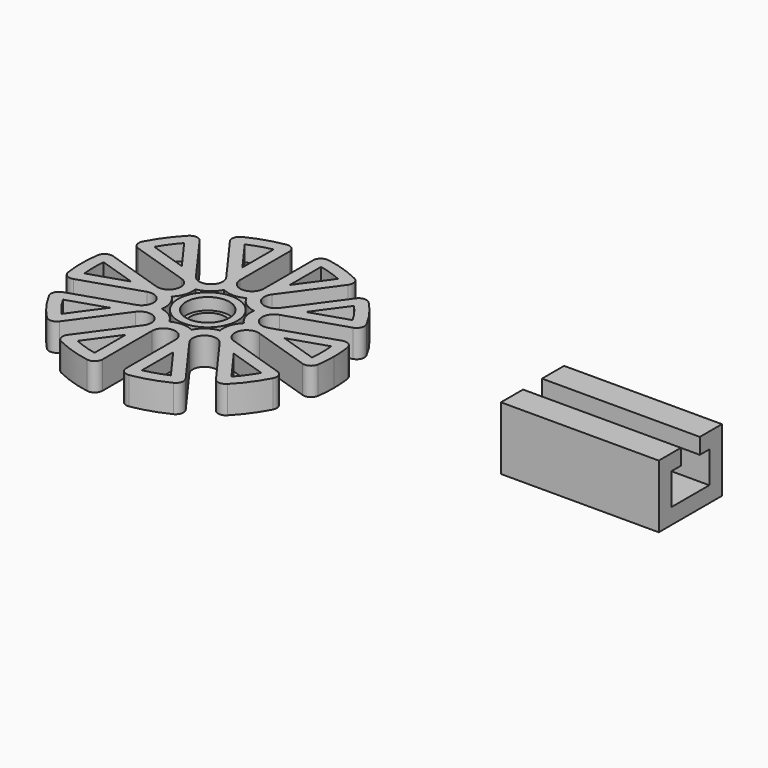
from build123d import *

# Parameters (mm, degrees)
F0_R      = 2.25
F1_DEPTH  = 3.5
F2_T      = -1.5
F3_R      = 2.75
F4_DEPTH  = 1.5
F5_R      = 1
F6_W      = 20
F6_H      = 10
F7_DEPTH  = 6
F8_T      = -2
F9_W      = 20
F9_H      = 3.5
F10_DEPTH = 2
F11_W     = 10
F11_H     = 5
F12_DEPTH = 3.5


with BuildPart() as f1:
    # F0 (on Top) → F1 (new body)
    with BuildSketch(Plane.XY):
        with BuildLine():
            ThreePointArc((15.613411, -3.495911), (15.903059, -1.758611), (16, 0))
            ThreePointArc((16, 0), (15.903059, 1.758611), (15.613411, 3.495911))
            Line((15.613411, 3.495911), (7.120921, 0.736534))
            ThreePointArc((7.120921, 0.736534), (5.230811, 1.699593), (6.19387, 3.589704))
            Line((6.19387, 3.589704), (14.68636, 6.349081))
            ThreePointArc((14.68636, 6.349081), (12.944272, 9.404564), (10.57667, 12.005584))
            Line((10.57667, 12.005584), (5.328022, 4.781441))
            ThreePointArc((5.328022, 4.781441), (3.232819, 4.449593), (2.900971, 6.544797))
            Line((2.900971, 6.544797), (8.149619, 13.76894))
            ThreePointArc((8.149619, 13.76894), (4.944272, 15.216904), (1.5, 15.929532))
            Line((1.5, 15.929532), (1.5, 7))
            ThreePointArc((1.5, 7), (0, 5.5), (-1.5, 7))
            Line((-1.5, 7), (-1.5, 15.929532))
            ThreePointArc((-1.5, 15.929532), (-4.944272, 15.216904), (-8.149619, 13.76894))
            Line((-8.149619, 13.76894), (-2.900971, 6.544797))
            ThreePointArc((-2.900971, 6.544797), (-2.687912, 6.126644), (-2.614497, 5.663119))
            ThreePointArc((-2.614497, 5.663119), (-3.650971, 4.236534), (-5.328022, 4.781441))
            Line((-5.328022, 4.781441), (-10.57667, 12.005584))
            ThreePointArc((-10.57667, 12.005584), (-12.944272, 9.404564), (-14.68636, 6.349081))
            Line((-14.68636, 6.349081), (-6.19387, 3.589704))
            ThreePointArc((-6.19387, 3.589704), (-5.44387, 3.044797), (-5.157396, 2.163119))
            ThreePointArc((-5.157396, 2.163119), (-5.775718, 0.949593), (-7.120921, 0.736534))
            Line((-7.120921, 0.736534), (-15.613411, 3.495911))
            ThreePointArc((-15.613411, 3.495911), (-16, 0), (-15.613411, -3.495911))
            Line((-15.613411, -3.495911), (-7.120921, -0.736534))
            ThreePointArc((-7.120921, -0.736534), (-5.775718, -0.949593), (-5.157396, -2.163119))
            ThreePointArc((-5.157396, -2.163119), (-5.44387, -3.044797), (-6.19387, -3.589704))
            Line((-6.19387, -3.589704), (-14.68636, -6.349081))
            ThreePointArc((-14.68636, -6.349081), (-12.944272, -9.404564), (-10.57667, -12.005584))
            Line((-10.57667, -12.005584), (-5.328022, -4.781441))
            ThreePointArc((-5.328022, -4.781441), (-3.650971, -4.236534), (-2.614497, -5.663119))
            ThreePointArc((-2.614497, -5.663119), (-2.687912, -6.126644), (-2.900971, -6.544797))
            Line((-2.900971, -6.544797), (-8.149619, -13.76894))
            ThreePointArc((-8.149619, -13.76894), (-4.944272, -15.216904), (-1.5, -15.929532))
            Line((-1.5, -15.929532), (-1.5, -7))
            ThreePointArc((-1.5, -7), (0, -5.5), (1.5, -7))
            Line((1.5, -7), (1.5, -15.929532))
            ThreePointArc((1.5, -15.929532), (4.944272, -15.216904), (8.149619, -13.76894))
            Line((8.149619, -13.76894), (2.900971, -6.544797))
            ThreePointArc((2.900971, -6.544797), (3.232819, -4.449593), (5.328022, -4.781441))
            Line((5.328022, -4.781441), (10.57667, -12.005584))
            ThreePointArc((10.57667, -12.005584), (12.944272, -9.404564), (14.68636, -6.349081))
            Line((14.68636, -6.349081), (6.19387, -3.589704))
            ThreePointArc((6.19387, -3.589704), (5.230811, -1.699593), (7.120921, -0.736534))
            Line((7.120921, -0.736534), (15.613411, -3.495911))
        make_face()
        Circle(F0_R, mode=Mode.SUBTRACT)
    extrude(amount=F1_DEPTH)

    # F2
    f2_openings = [f1.faces().sort_by_distance(p)[0] for p in [
        (15.548447, 0, 3.5),
    ]]
    offset(amount=F2_T, openings=f2_openings)

    # F3 (on face) → F4 (cut)
    with BuildSketch(Plane.XY.offset(3.5)):
        Circle(F3_R)
    extrude(amount=-F4_DEPTH, mode=Mode.SUBTRACT)

    # F5
    f5_edges = [f1.edges().sort_by_distance(p)[0] for p in [
        (-10.57667, -12.005584, 1.75),
        (-8.149619, -13.76894, 1.75),
        (-1.5, -15.929532, 1.75),
        (1.5, -15.929532, 1.75),
        (8.149619, -13.76894, 1.75),
        (10.57667, -12.005584, 1.75),
        (14.68636, -6.349081, 1.75),
        (15.613411, 3.495911, 1.75),
        (15.613411, -3.495911, 1.75),
        (14.68636, 6.349081, 1.75),
        (10.57667, 12.005584, 1.75),
        (8.149619, 13.76894, 1.75),
        (-1.5, 15.929532, 1.75),
        (1.5, 15.929532, 1.75),
        (-10.57667, 12.005584, 1.75),
        (-8.149619, 13.76894, 1.75),
        (-15.613411, 3.495911, 1.75),
        (-15.613411, -3.495911, 1.75),
        (-14.68636, -6.349081, 1.75),
        (-14.68636, 6.349081, 1.75),
    ]]
    fillet(f5_edges, radius=F5_R)


with BuildPart() as f7:
    # F6 (on Top) → F7 (new body)
    with BuildSketch(Plane.XY):
        with Locations((50.421845, 0.903753)):
            Rectangle(F6_W, F6_H)
    extrude(amount=F7_DEPTH)

    # F8
    f8_openings = [f7.faces().sort_by_distance(p)[0] for p in [
        (40.421845, 0.903753, 3),
        (50.421845, 0.903753, 6),
        (60.421845, 0.903753, 3),
    ]]
    offset(amount=F8_T, openings=f8_openings)

    # F9 (on face) → F10 (join)
    with BuildSketch(Plane.XY.offset(6)):
        with Locations((50.421845, 4.153753)):
            Rectangle(F9_W, F9_H)
        with Locations((50.421845, 4.153753)):
            Rectangle(F9_W, F9_H)
        with Locations((50.421845, -2.346247)):
            Rectangle(F9_W, F9_H)
    extrude(amount=F10_DEPTH)


with BuildPart() as f12:
    # F11 (on face) → F12 (new body)
    with BuildSketch(Plane.XY.offset(2)):
        with Locations((50.421845, 1)):
            Rectangle(F11_W, F11_H)
    extrude(amount=F12_DEPTH)


solid = Compound([f1.part, f7.part, f12.part])
